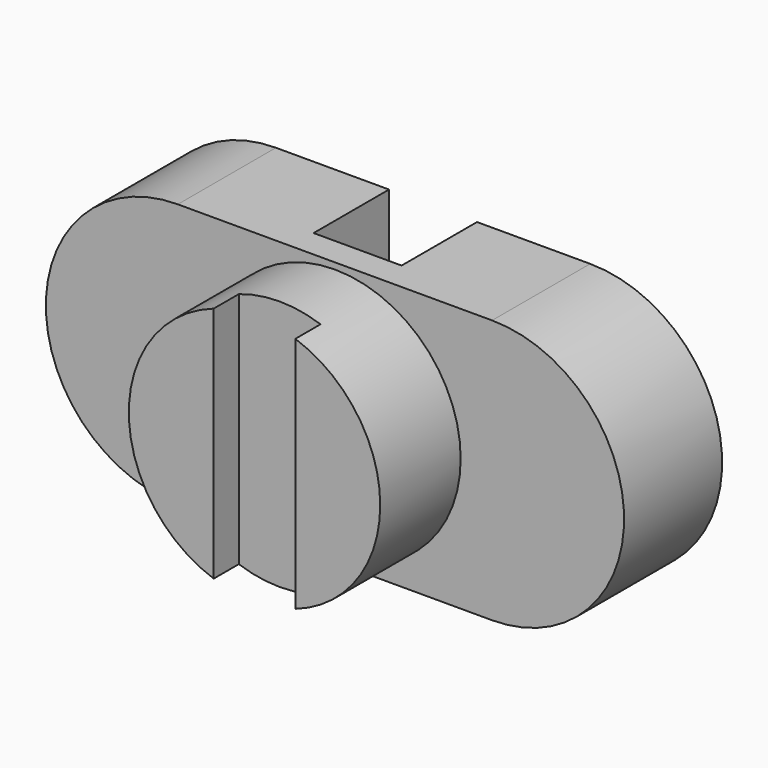
from build123d import *

# Parameters (mm, degrees)
PAD002_DEPTH    = 1.95
SKETCH008_R     = 2
PAD003_DEPTH    = 1.6
SKETCH009_W     = 1.4
SKETCH009_H     = 4.2
POCKET005_DEPTH = 1.5
SKETCH010_W     = 1.3
SKETCH010_H     = 4
POCKET006_DEPTH = 0.5


with BuildPart() as part:
    # Sketch007 → Pad002 (new body)
    with BuildSketch(Plane.XZ):
        with BuildLine():
            ThreePointArc((-2.5, 2.1), (-4.6, 0), (-2.5, -2.1))
            Line((-2.5, -2.1), (2.5, -2.1))
            ThreePointArc((2.5, -2.1), (4.6, 0), (2.5, 2.1))
            Line((2.5, 2.1), (-2.5, 2.1))
        make_face()
    extrude(amount=PAD002_DEPTH)

    # Sketch008 (on Face6 of Pad002) → Pad003 (join)
    with BuildSketch(Plane.XZ.offset(1.95)):
        Circle(SKETCH008_R)
    extrude(amount=PAD003_DEPTH)

    # Sketch009 (on Face4 of Pad003) → Pocket005 (cut)
    with BuildSketch(Plane(origin=(0, 0, 0), x_dir=(1, 0, 0), z_dir=(0, 1, 0))):
        Rectangle(SKETCH009_W, SKETCH009_H)
    extrude(amount=-POCKET005_DEPTH, mode=Mode.SUBTRACT)

    # Sketch010 (on Face12 of Pocket005) → Pocket006 (cut)
    with BuildSketch(Plane.XZ.offset(3.55)):
        Rectangle(SKETCH010_W, SKETCH010_H)
    extrude(amount=-POCKET006_DEPTH, mode=Mode.SUBTRACT)


with BuildPart() as part_1:
    # Body001 placement: moved
    add(part.part.moved(Location((-4.066, -15.05, 12.2))))


solid = part_1.part
